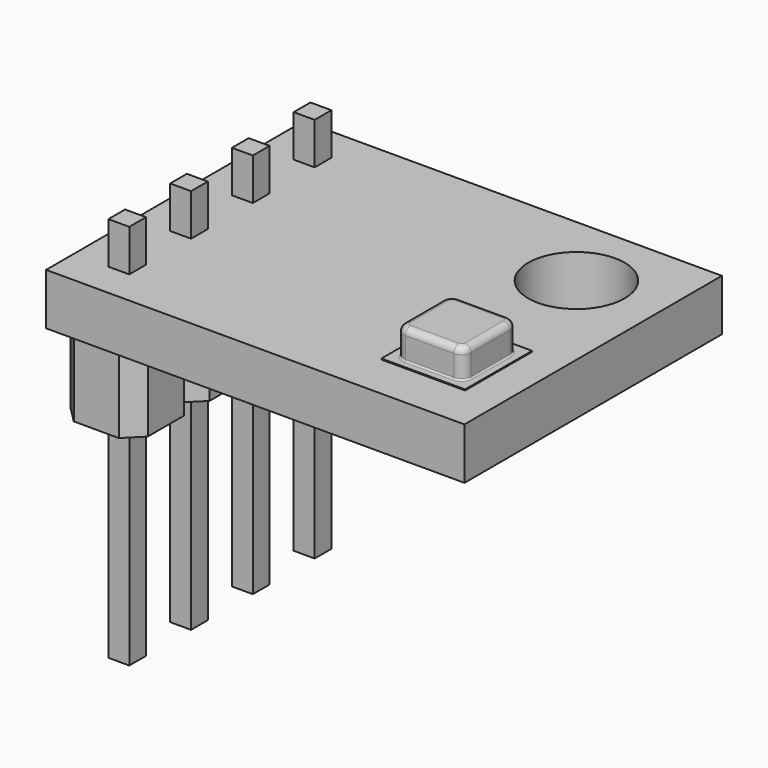
from build123d import *

# Parameters (mm, degrees)
SKETCH_W      = 13
SKETCH_H      = 10
PAD_DEPTH     = 1.6
SKETCH001_R   = 1.5
SKETCH001_W   = 0.65
SKETCH001_H   = 0.65
POCKET_DEPTH  = 5
SKETCH002_W   = 2.6
SKETCH002_H   = 2.6
PAD001_DEPTH  = 0.03
SKETCH003_W   = 2.1
SKETCH003_H   = 2.1
PAD002_DEPTH  = 0.9
FILLET_R      = 0.3
FILLET001_R   = 0.05
FILLET002_R   = 0.2
SKETCH004_W   = 1.1
SKETCH004_H   = 2
SKETCH004_W_2 = 1.5
SKETCH004_H_2 = 0.9
SKETCH004_H_3 = 0.75
SKETCH004_H_4 = 2.9
SKETCH004_W_3 = 3.2
SKETCH004_H_5 = 1.4
SKETCH004_W_4 = 0.8
SKETCH004_H_6 = 1.6
PAD003_DEPTH  = 0.27
SKETCH005_W   = 2.4
SKETCH005_H   = 2.4
PAD004_DEPTH  = 2.4
CHAMFER_SIZE  = 0.5
PAD005_DEPTH  = 2.4
SKETCH007_W   = 0.65
SKETCH007_H   = 0.65
PAD006_DEPTH  = 12


with BuildPart() as part:
    # Sketch (on XY_Plane of Origin) → Pad (new body)
    with BuildSketch(Plane.XY):
        with Locations((6.5, 5)):
            Rectangle(SKETCH_W, SKETCH_H)
    extrude(amount=PAD_DEPTH)

    # Sketch001 (on XY_Plane of Origin) → Pocket (cut)
    with BuildSketch(Plane.XY):
        with Locations((10.4, 7.6)):
            Circle(SKETCH001_R)
        with Locations((1.4, 8.6)):
            Rectangle(SKETCH001_W, SKETCH001_H)
        with Locations((1.4, 6.2)):
            Rectangle(SKETCH001_W, SKETCH001_H)
        with Locations((1.4, 3.8)):
            Rectangle(SKETCH001_W, SKETCH001_H)
        with Locations((1.4, 1.4)):
            Rectangle(SKETCH001_W, SKETCH001_H)
    extrude(amount=POCKET_DEPTH, mode=Mode.SUBTRACT)

    # Sketch002 (on Face5 of Pocket) → Pad001 (join)
    with BuildSketch(Plane.XY.offset(1.6)):
        with Locations((10.6, 2.7)):
            Rectangle(SKETCH002_W, SKETCH002_H)
    extrude(amount=PAD001_DEPTH)

    # Sketch003 (on Face28 of Pad001) → Pad002 (join)
    with BuildSketch(Plane.XY.offset(1.63)):
        with Locations((10.6, 2.7)):
            Rectangle(SKETCH003_W, SKETCH003_H)
    extrude(amount=PAD002_DEPTH)

    # Fillet
    fillet_edges = [part.edges().sort_by_distance(p)[0] for p in [
        (9.55, 1.65, 2.08),
        (9.55, 3.75, 2.08),
        (11.65, 1.65, 2.08),
        (11.65, 3.75, 2.08),
    ]]
    fillet(fillet_edges, radius=FILLET_R)

    # Fillet001
    fillet001_edges = [part.edges().sort_by_distance(p)[0] for p in [
        (9.637868, 1.737868, 1.63),
    ]]
    fillet(fillet001_edges, radius=FILLET001_R)

    # Fillet002
    fillet002_edges = [part.edges().sort_by_distance(p)[0] for p in [
        (10.6, 1.65, 2.53),
    ]]
    fillet(fillet002_edges, radius=FILLET002_R)

    # Sketch004 (on Face53 of Fillet002) → Pad003 (join)
    with BuildSketch(Plane(origin=(0, 0, 0), x_dir=(1, 0, 0), z_dir=(0, 0, -1))):
        with Locations((5.65, -2.1)):
            Rectangle(SKETCH004_W, SKETCH004_H)
        with Locations((8.7, -1.35)):
            Rectangle(SKETCH004_W_2, SKETCH004_H_2)
        with Locations((8.7, -2.95)):
            Rectangle(SKETCH004_W_2, SKETCH004_H_2)
        with Locations((8.7, -4.425)):
            Rectangle(SKETCH004_W_2, SKETCH004_H_3)
        with Locations((5.85, -7.65)):
            Rectangle(SKETCH004_W, SKETCH004_H_4)
        with Locations((4.8, -4.8)):
            Rectangle(SKETCH004_W_3, SKETCH004_H_5)
        with Locations((3.3, -8)):
            Rectangle(SKETCH004_W_4, SKETCH004_H_6)
    extrude(amount=PAD003_DEPTH)

    # Sketch005 (on Face53 of Pad003) → Pad004 (join)
    with BuildSketch(Plane(origin=(0, 0, 0), x_dir=(1, 0, 0), z_dir=(0, 0, -1))):
        with Locations((1.4, -1.4)):
            Rectangle(SKETCH005_W, SKETCH005_H)
        with Locations((1.4, -6.2)):
            Rectangle(SKETCH005_W, SKETCH005_H)
    extrude(amount=PAD004_DEPTH)

    # Chamfer
    chamfer_edges = [part.edges().sort_by_distance(p)[0] for p in [
        (2.6, 5, -1.2),
        (0.2, 5, -1.2),
        (2.6, 7.4, -1.2),
        (2.6, 2.6, -1.2),
        (2.6, 0.2, -1.2),
        (0.2, 0.2, -1.2),
        (0.2, 7.4, -1.2),
        (0.2, 2.6, -1.2),
    ]]
    chamfer(chamfer_edges, length=CHAMFER_SIZE)

    # Sketch006 (on Face1 of Chamfer) → Pad005 (join)
    with BuildSketch(Plane(origin=(0, 0, 0), x_dir=(1, 0, 0), z_dir=(0, 0, -1))):
        Polygon((0.7, -2.6), (2.1, -2.6), (2.6, -3.1), (2.6, -4.5), (2.1, -5), (0.7, -5), (0.2, -4.5), (0.2, -3.1), align=None)
        Polygon((0.7, -7.4), (2.1, -7.4), (2.6, -7.9), (2.6, -9.3), (2.1, -9.8), (0.7, -9.8), (0.2, -9.3), (0.2, -7.9), align=None)
    extrude(amount=PAD005_DEPTH)

    # Sketch007 (on Face61 of Pad005) → Pad006 (join)
    with BuildSketch(Plane.XY.offset(2.9)):
        with Locations((1.4, 8.6)):
            Rectangle(SKETCH007_W, SKETCH007_H)
        with Locations((1.4, 6.2)):
            Rectangle(SKETCH007_W, SKETCH007_H)
        with Locations((1.4, 3.8)):
            Rectangle(SKETCH007_W, SKETCH007_H)
        with Locations((1.4, 1.4)):
            Rectangle(SKETCH007_W, SKETCH007_H)
    extrude(amount=-PAD006_DEPTH)


solid = part.part
